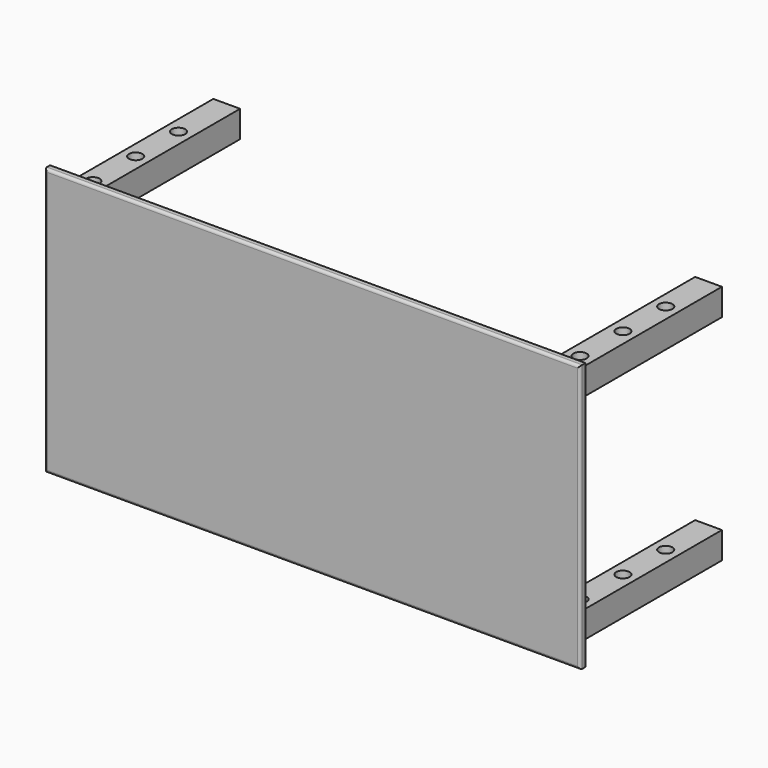
from build123d import *

# Parameters (mm, degrees)
F0_W      = 2000
F0_H      = 1000
F1_DEPTH  = 25
F2_W      = 100
F2_H      = 100
F3_DEPTH  = 700
F4_R      = 25
F5_DEPTH  = 2819
F6_R      = 25
F7_DEPTH  = 2080
F8_R      = 25
F9_DEPTH  = 773
F10_R     = 25
F11_DEPTH = 1331
F12_R     = 25
F13_DEPTH = 1200
F14_R     = 25
F15_DEPTH = 1300
F16_DEPTH = 338
F17_R     = 25
F18_DEPTH = 1300
F19_R     = 10


with BuildPart() as f1:
    # F0 (on Front) → F1 (new body)
    with BuildSketch(Plane.XZ):
        with Locations((1000, 500)):
            Rectangle(F0_W, F0_H)
    extrude(amount=F1_DEPTH)

    # F2 (on face) → F3 (join)
    with BuildSketch(Plane(origin=(0, 0, 0), x_dir=(-1, 0, 0), z_dir=(0, 1, 0))):
        with Locations((-1900, 100)):
            Rectangle(F2_W, F2_H)
        with Locations((-100, 100)):
            Rectangle(F2_W, F2_H)
        with Locations((-1900, 900)):
            Rectangle(F2_W, F2_H)
        with Locations((-100, 900)):
            Rectangle(F2_W, F2_H)
    extrude(amount=F3_DEPTH)

    # F4 (on face) → F5 (cut)
    with BuildSketch(Plane(origin=(0, 0, 50), x_dir=(1, 0, 0), z_dir=(0, 0, -1))):
        with Locations((1900, -500)):
            Circle(F4_R)
    extrude(amount=-F5_DEPTH, mode=Mode.SUBTRACT)

    # F6 (on face) → F7 (cut)
    with BuildSketch(Plane.XY.offset(150)):
        with Locations((1900, 300)):
            Circle(F6_R)
    extrude(amount=F7_DEPTH, mode=Mode.SUBTRACT)

    # F8 (on face) → F9 (cut)
    with BuildSketch(Plane.XY.offset(150)):
        with Locations((1900, 100)):
            Circle(F8_R)
    extrude(amount=F9_DEPTH, mode=Mode.SUBTRACT)

    # F10 (on face) → F11 (cut)
    with BuildSketch(Plane.XY.offset(950)):
        with Locations((100, 475)):
            Circle(F10_R)
    extrude(amount=-F11_DEPTH, mode=Mode.SUBTRACT)

    # F12 (on face) → F13 (cut)
    with BuildSketch(Plane.XY.offset(950)):
        with Locations((100, 275)):
            Circle(F12_R)
    extrude(amount=-F13_DEPTH, mode=Mode.SUBTRACT)

    # F14 (on face) → F15 (cut)
    with BuildSketch(Plane.XY.offset(950)):
        with Locations((100, 75)):
            Circle(F14_R)
    extrude(amount=-F15_DEPTH, mode=Mode.SUBTRACT)

    # F6 (on face) → F16 (cut)
    with BuildSketch(Plane.XY.offset(150)):
        with Locations((1900, 300)):
            Circle(F6_R)
    extrude(amount=-F16_DEPTH, mode=Mode.SUBTRACT)

    # F17 (on face) → F18 (cut)
    with BuildSketch(Plane.XY.offset(950)):
        with Locations((1900, 100)):
            Circle(F17_R)
    extrude(amount=-F18_DEPTH, mode=Mode.SUBTRACT)

    # F19
    f19_edges = [f1.edges().sort_by_distance(p)[0] for p in [
        (1000, -25, 0),
        (0, -25, 500),
        (1000, -25, 1000),
        (2000, -25, 500),
    ]]
    fillet(f19_edges, radius=F19_R)


solid = f1.part
